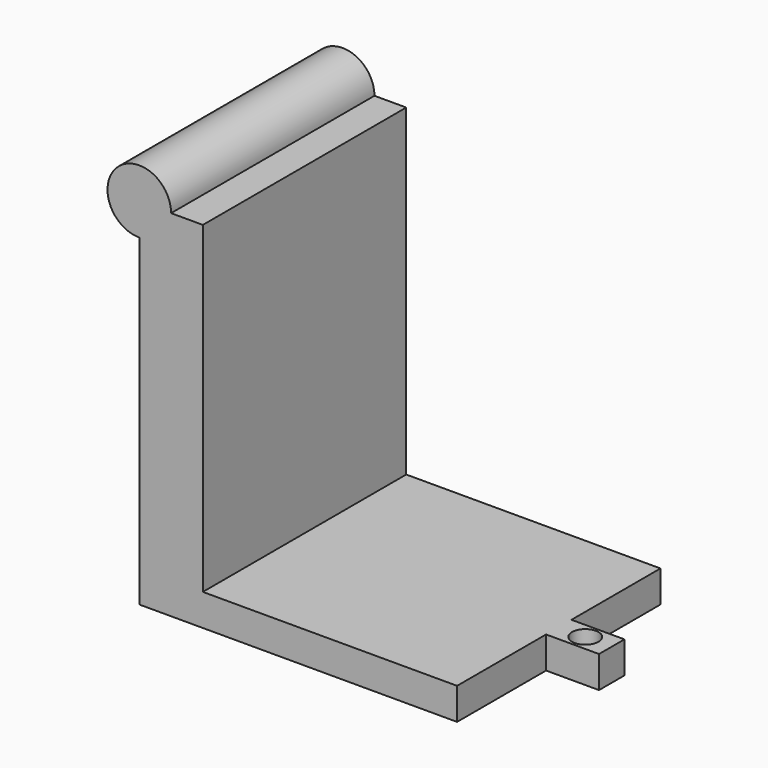
from build123d import *

# Parameters (mm, degrees)
F0_W     = 609.6
F0_H     = 850.9
F1_DEPTH = 152.4
F2_W     = 609.6
F2_H     = 76.2
F3_DEPTH = 609.6
F4_W     = 76.2
F4_H     = 76.2
F5_DEPTH = 127
F6_R     = 31.75
F7_DEPTH = 137.16
F8_W     = 76.2
F8_H     = 609.6


with BuildPart() as f1:
    # F0 (on Right) → F1 (new body)
    with BuildSketch(Plane.YZ):
        Rectangle(F0_W, F0_H)
    extrude(amount=F1_DEPTH)

    # F2 (on face) → F3 (join)
    with BuildSketch(Plane.YZ.offset(152.4)):
        with Locations((0, -387.35)):
            Rectangle(F2_W, F2_H)
    extrude(amount=F3_DEPTH)

    # F4 (on face) → F5 (join)
    with BuildSketch(Plane.YZ.offset(762)):
        with Locations((0, -387.35)):
            Rectangle(F4_W, F4_H)
    extrude(amount=F5_DEPTH)

    # F6 (on face) → F7 (cut)
    with BuildSketch(Plane.XY.offset(-349.25)):
        with Locations((825.5, 0)):
            Circle(F6_R)
    extrude(amount=-F7_DEPTH, mode=Mode.SUBTRACT)

    # F8 (on face) → F9 (revolve)
    with BuildSketch(Plane.XY.offset(425.45)):
        with Locations((38.1, 0)):
            Rectangle(F8_W, F8_H)
    revolve(axis=Axis((0, 0, 425.45), (0, -1, 0)))


solid = f1.part
